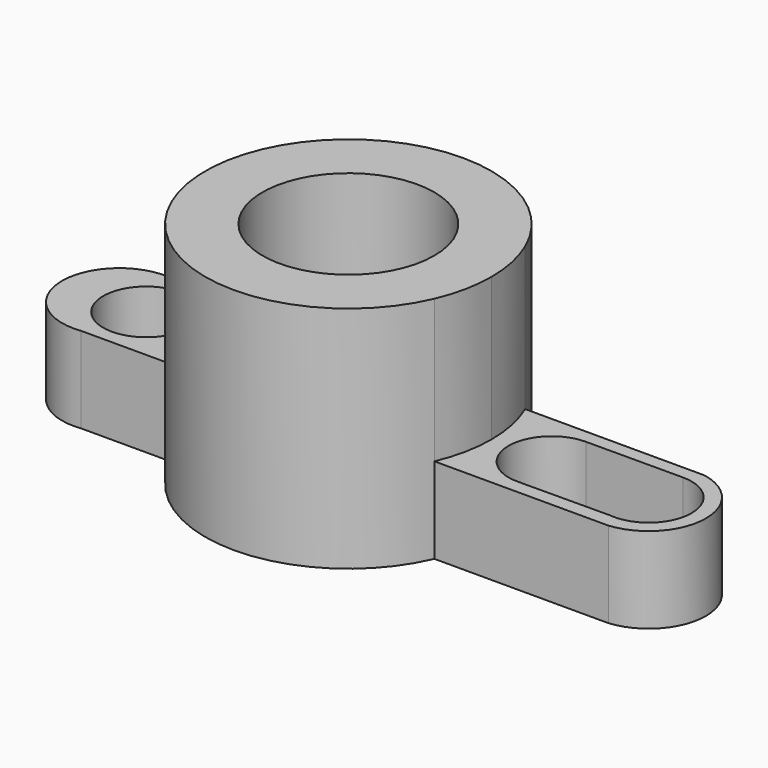
from build123d import *

# Parameters (mm, degrees)
F0_R     = 19.05
F1_DEPTH = 50.8
F0_R_2   = 9.525
F2_DEPTH = 19.05
F3_DEPTH = 19.05


with BuildPart() as f1:
    # F0 (on Top) → F1 (new body)
    with BuildSketch(Plane.XY):
        with BuildLine():
            ThreePointArc((29.147548, -12.589001), (31.092581, -6.427591), (31.75, 0))
            ThreePointArc((31.75, 0), (31.098159, 6.400547), (29.169401, 12.538283))
            ThreePointArc((29.169401, 12.538283), (0.010397, 31.749998), (-29.161183, 12.557384))
            ThreePointArc((-29.161183, 12.557384), (-31.749993, -0.021323), (-29.14429, -12.596541))
            ThreePointArc((-29.14429, -12.596541), (0.004107, -31.75), (29.147548, -12.589001))
        make_face()
        Circle(F0_R, mode=Mode.SUBTRACT)
    extrude(amount=F1_DEPTH)

    # F0 (on Top) → F2 (join)
    with BuildSketch(Plane.XY):
        with BuildLine():
            ThreePointArc((-29.14429, -12.596541), (-31.749993, -0.021323), (-29.161183, 12.557384))
            Line((-29.161183, 12.557384), (-48.945453, 12.563863))
            ThreePointArc((-48.945453, 12.563863), (-63.499337, 0.129762), (-49.202569, -12.599135))
            Line((-49.202569, -12.599135), (-29.14429, -12.596541))
        make_face()
        with Locations((-44.845603, 0)):
            Circle(F0_R_2, mode=Mode.SUBTRACT)
    extrude(amount=F2_DEPTH)

    # F0 (on Top) → F3 (join)
    with BuildSketch(Plane.XY):
        with BuildLine():
            ThreePointArc((29.169401, 12.538283), (31.098159, 6.400547), (31.75, 0))
            ThreePointArc((31.75, 0), (31.092581, -6.427591), (29.147548, -12.589001))
            Line((29.147548, -12.589001), (67.717979, -12.584012))
            ThreePointArc((67.717979, -12.584012), (79.23174, -0.579906), (68.988677, 12.525243))
            Line((68.988677, 12.525243), (29.169401, 12.538283))
        make_face()
        with BuildLine():
            ThreePointArc((67.717979, -9.390889), (66.604114, -9.462856), (65.489479, -9.404025))
            Line((65.489479, -9.404025), (45.251264, -9.523317))
            ThreePointArc((45.251264, -9.523317), (35.54757, -0.081586), (45.088101, 9.524987))
            Line((45.088101, 9.524987), (66.520438, 9.586939))
            ThreePointArc((66.520438, 9.586939), (76.054064, 0.661833), (67.717979, -9.390889))
        make_face(mode=Mode.SUBTRACT)
    extrude(amount=F3_DEPTH)


solid = f1.part
